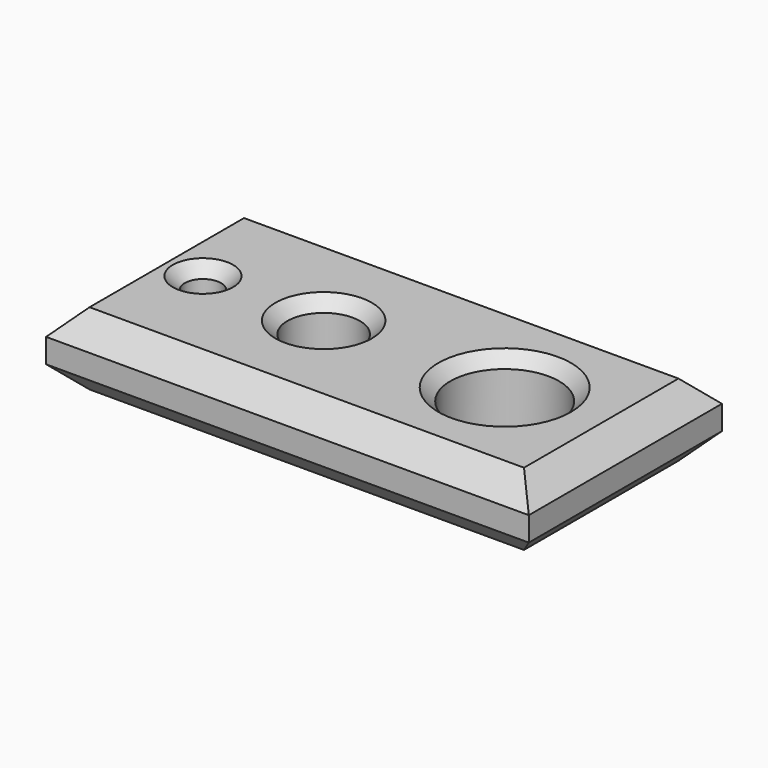
from build123d import *

# Parameters (mm, degrees)
F0_W     = 200
F0_H     = 100
F0_R     = 7.5
F0_R_2   = 15
F0_R_3   = 22.5
F1_DEPTH = 30
F2_SIZE  = 10
F3_SIZE  = 5


with BuildPart() as f1:
    # F0 (on Top) → F1 (new body)
    with BuildSketch(Plane.XY):
        Rectangle(F0_W, F0_H)
        with Locations((-75, 0)):
            Circle(F0_R, mode=Mode.SUBTRACT)
        with Locations((-25, 0)):
            Circle(F0_R_2, mode=Mode.SUBTRACT)
        with Locations((50, 0)):
            Circle(F0_R_3, mode=Mode.SUBTRACT)
    extrude(amount=F1_DEPTH)

    # F2
    f2_edges = [f1.edges().sort_by_distance(p)[0] for p in [
        (0, -50, 30),
        (100, 0, 30),
        (-100, 0, 30),
        (0, 50, 30),
        (0, -50, 0),
        (100, 0, 0),
        (-100, 0, 0),
        (0, 50, 0),
    ]]
    chamfer(f2_edges, length=F2_SIZE)

    # F3
    f3_edges = [f1.edges().sort_by_distance(p)[0] for p in [
        (27.5, 0, 30),
        (-40, 0, 30),
        (-82.5, 0, 30),
    ]]
    chamfer(f3_edges, length=F3_SIZE)


solid = f1.part
